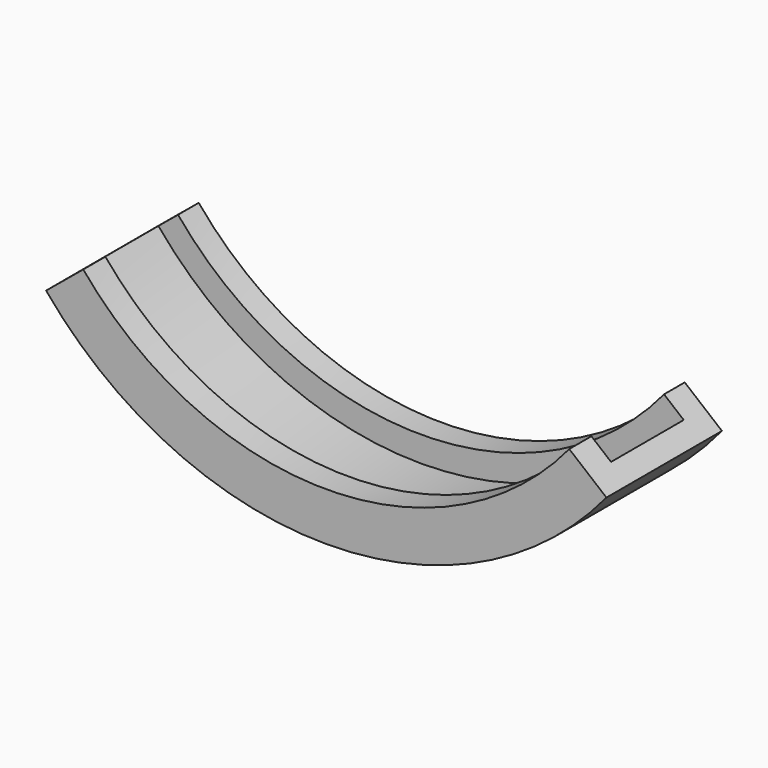
from build123d import *

# Parameters (mm, degrees)
F0_W     = 25.4
F0_H     = 6.35
F1_ANGLE = 100.914843


with BuildPart() as f1:
    # F0 (on Right) → F1 (revolve, symmetric)
    with BuildSketch(Plane.YZ) as f1_sk:
        with Locations((12.7, 3.175)):
            Rectangle(F0_W, F0_H)
        Polygon((-7.733337, 0), (0, 0), (0, 6.35), (0, 13.47493), (-7.733337, 13.47493), align=None)
        Polygon((25.4, 6.35), (25.4, 0), (32.637283, 0), (32.637283, 13.47493), (25.4, 13.47493), align=None)
    revolve(axis=Axis((0, 12.517576, 101.6), (0, 1, 0)), revolution_arc=F1_ANGLE / 2)
    revolve(f1_sk.sketch, axis=Axis((0, 12.517576, 101.6), (0, -1, 0)), revolution_arc=F1_ANGLE / 2)


solid = f1.part
